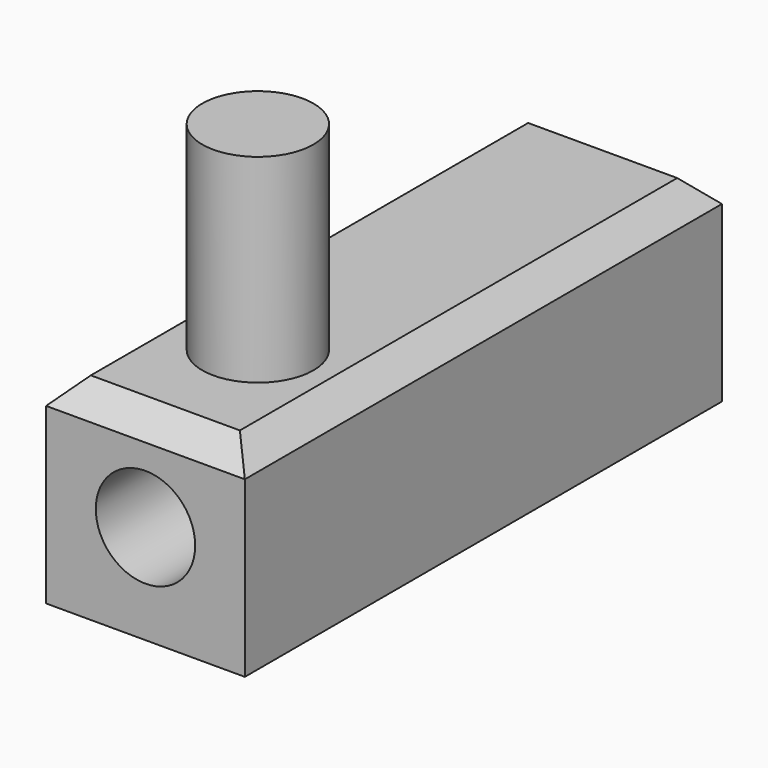
from build123d import *

# Parameters (mm, degrees)
F0_W     = 25.4
F0_H     = 25.4
F0_R     = 6.35
F1_DEPTH = 76.2
F2_R     = 7.106299
F3_DEPTH = 25.4
F4_SIZE  = 3.175


with BuildPart() as f1:
    # F0 (on Front) → F1 (new body)
    with BuildSketch(Plane.XZ):
        with Locations((-32.064135, 37.379126)):
            Rectangle(F0_W, F0_H)
        with Locations((-32.064135, 37.379126)):
            Circle(F0_R, mode=Mode.SUBTRACT)
    extrude(amount=F1_DEPTH)

    # F2 (on face) → F3 (join)
    with BuildSketch(Plane.XY.offset(50.079126)):
        with Locations((-32.023989, -58.298852)):
            Circle(F2_R)
    extrude(amount=F3_DEPTH)

    # F4
    f4_edges = [f1.edges().sort_by_distance(p)[0] for p in [
        (-19.364135, -38.1, 50.079126),
        (-32.064135, -76.2, 50.079126),
        (-44.764135, -38.1, 50.079126),
        (-32.064135, 0, 50.079126),
    ]]
    chamfer(f4_edges, length=F4_SIZE)


solid = f1.part
